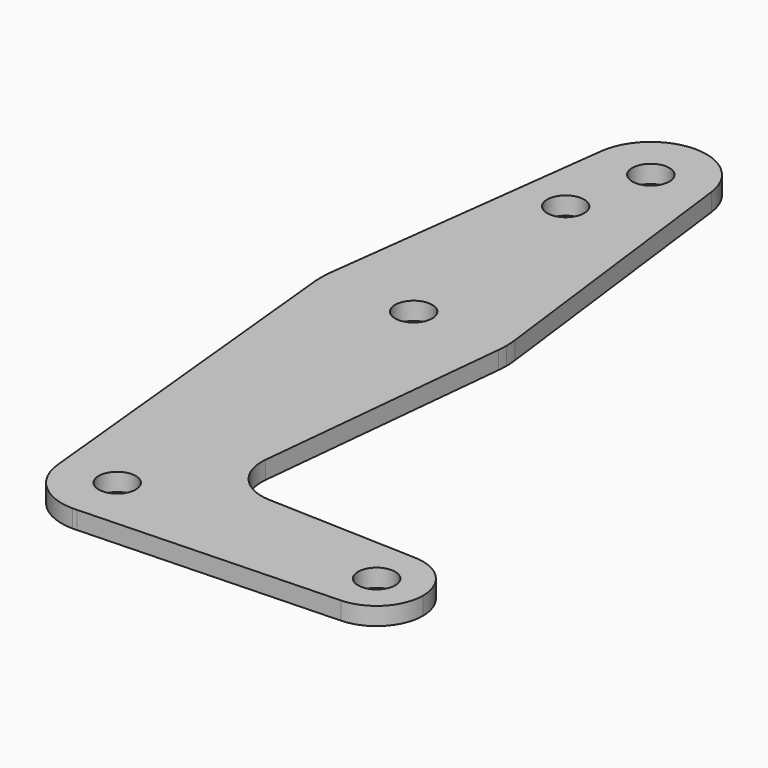
from build123d import *

# Parameters (mm, degrees)
F0_R     = 3.175
F1_DEPTH = 3.048


with BuildPart() as f1:
    # F0 (on Top) → F1 (new body)
    with BuildSketch(Plane.XY):
        with BuildLine():
            Line((-9.450293, 115.490625), (-15.750488, 65.484375))
            ThreePointArc((-15.750488, 65.484375), (0, 79.375), (15.750488, 65.484375))
            Line((15.750488, 65.484375), (9.450293, 115.490625))
            ThreePointArc((9.450293, 115.490625), (9.506305, 114.896483), (9.525, 114.3))
            ThreePointArc((9.525, 114.3), (-0.596483, 104.793695), (-9.450293, 115.490625))
        make_face()
        with Locations((-3.175, 100.0252)):
            Circle(F0_R, mode=Mode.SUBTRACT)
        with BuildLine():
            ThreePointArc((9.450293, 115.490625), (0, 123.825), (-9.450293, 115.490625))
            ThreePointArc((-9.450293, 115.490625), (-0.596483, 104.793695), (9.525, 114.3))
            ThreePointArc((9.525, 114.3), (9.506305, 114.896483), (9.450293, 115.490625))
        make_face()
        with Locations((0, 114.3)):
            Circle(F0_R, mode=Mode.SUBTRACT)
        with BuildLine():
            ThreePointArc((-15.750488, 65.484375), (-15.873744, 63.699705), (-15.795426, 61.9125))
            ThreePointArc((-15.795426, 61.9125), (0, 47.625), (15.795426, 61.9125))
            ThreePointArc((15.795426, 61.9125), (15.855094, 62.705253), (15.875, 63.5))
            ThreePointArc((15.875, 63.5), (15.843841, 64.494139), (15.750488, 65.484375))
            ThreePointArc((15.750488, 65.484375), (0, 79.375), (-15.750488, 65.484375))
        make_face()
        with Locations((0, 63.5)):
            Circle(F0_R, mode=Mode.SUBTRACT)
        with BuildLine():
            ThreePointArc((-9.477255, -0.9525), (-0.476848, 9.513056), (9.525, 0))
            ThreePointArc((9.525, 0), (6.970557, -6.491299), (0.677344, -9.500886))
            Line((0.677344, -9.500886), (44.732405, -7.932475))
            ThreePointArc((44.732405, -7.932475), (36.5125, 0), (44.732405, 7.932475))
            Line((44.732405, 7.932475), (18.968328, 8.849706))
            ThreePointArc((18.968328, 8.849706), (13.261204, 11.567463), (11.340836, 17.589892))
            Line((11.340836, 17.589892), (15.795426, 61.9125))
            ThreePointArc((15.795426, 61.9125), (0, 47.625), (-15.795426, 61.9125))
            Line((-15.795426, 61.9125), (-9.477255, -0.9525))
        make_face()
        with BuildLine():
            ThreePointArc((0.677344, -9.500886), (6.970557, -6.491299), (9.525, 0))
            ThreePointArc((9.525, 0), (-0.476848, 9.513056), (-9.477255, -0.9525))
            ThreePointArc((-9.477255, -0.9525), (-6.389564, -7.063929), (0, -9.525))
            Line((0, -9.525), (0.677344, -9.500886))
        make_face()
        Circle(F0_R, mode=Mode.SUBTRACT)
        with BuildLine():
            ThreePointArc((44.732405, 7.932475), (36.5125, 0), (44.732405, -7.932475))
            ThreePointArc((44.732405, -7.932475), (50.161633, -5.51191), (52.3875, 0))
            ThreePointArc((52.3875, 0), (50.161633, 5.51191), (44.732405, 7.932475))
        make_face()
        with Locations((44.45, 0)):
            Circle(F0_R, mode=Mode.SUBTRACT)
    extrude(amount=F1_DEPTH)


solid = f1.part
